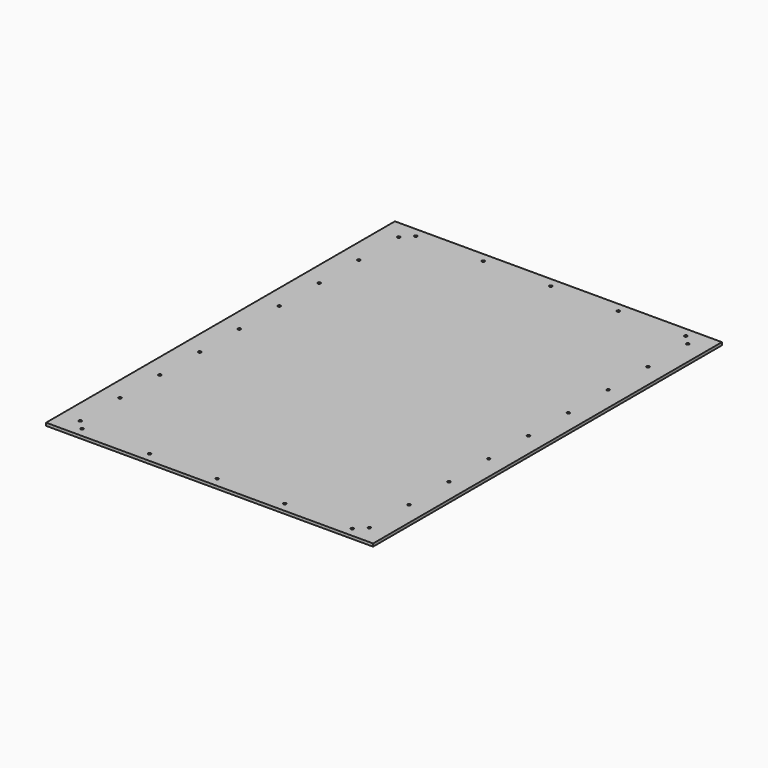
from build123d import *

# Parameters (mm, degrees)
F0_W     = 345
F0_H     = 460
F1_DEPTH = 3
F5_D     = 3
F6_D     = 3


with BuildPart() as f1:
    # F0 (on Top) → F1 (new body)
    with BuildSketch(Plane.XY):
        Rectangle(F0_W, F0_H)
    extrude(amount=F1_DEPTH)

    # F5 (through all)
    with Locations(Plane.XY.offset(3)):
        with Locations((-152.5, 210), (-152.5, 157.5), (-152.5, 105), (-152.5, 52.5), (-152.5, 0), (-152.5, -52.5), (-152.5, -105), (-152.5, -157.5), (-152.5, -210), (152.5, -210), (152.5, -157.5), (152.5, -105), (152.5, -52.5), (152.5, 0), (152.5, 52.5), (152.5, 105), (152.5, 157.5), (152.5, 210)):
            Hole(F5_D / 2)

    # F6 (through all)
    with Locations(Plane.XY.offset(3)):
        with Locations((-142.5, 220), (-71.25, 220), (0, 220), (71.25, 220), (142.5, 220), (-142.5, -220), (-71.25, -220), (0, -220), (71.25, -220), (142.5, -220)):
            Hole(F6_D / 2)


solid = f1.part
